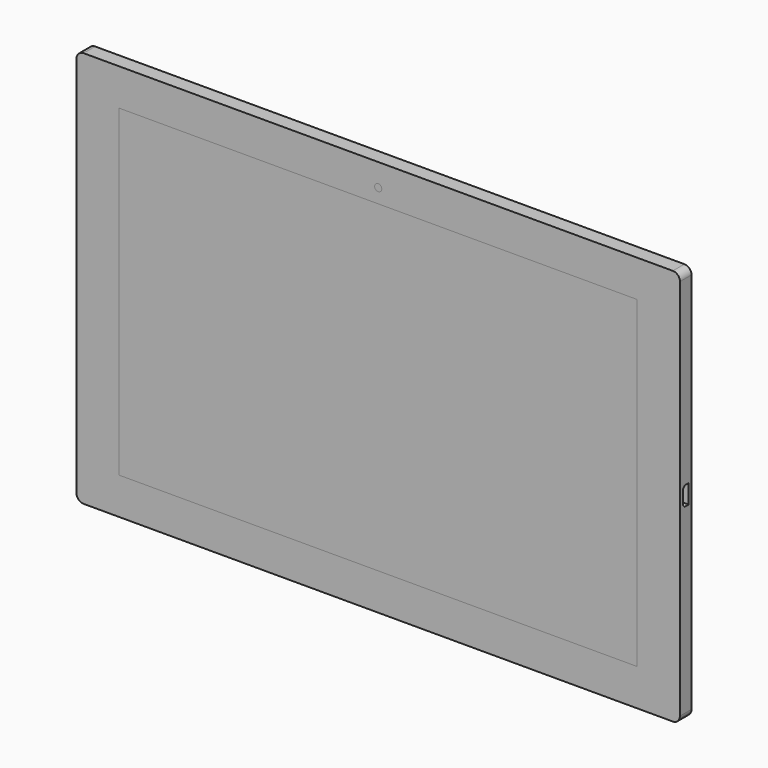
from build123d import *

# Parameters (mm, degrees)
F0_W      = 254
F0_H      = 167
F1_DEPTH  = 3.05
F2_R      = 3
F3_W      = 218
F3_H      = 136
F3_R      = 1.5
F4_DEPTH  = 1
F5_W      = 218
F5_H      = 136
F6_DEPTH  = 1
F5_R      = 1.5
F7_R      = 3.5
F8_DEPTH  = 3
F9_R      = 3.5
F10_DEPTH = 3
F11_R     = 1.75
F12_DEPTH = 1
F14_DEPTH = 8


with BuildPart() as f1:
    # F0 (on Front) → F1 (new body, symmetric)
    with BuildSketch(Plane.XZ):
        Rectangle(F0_W, F0_H)
    extrude(amount=F1_DEPTH, both=True)

    # F2
    f2_edges = [f1.edges().sort_by_distance(p)[0] for p in [
        (127, 0, 83.5),
        (127, 0, -83.5),
        (-127, 0, -83.5),
        (-127, 0, 83.5),
    ]]
    fillet(f2_edges, radius=F2_R)

    # F3 (on face) → F4 (cut)
    with BuildSketch(Plane.XZ.offset(3.05)):
        Rectangle(F3_W, F3_H)
        with Locations((0, 74)):
            Circle(F3_R)
    extrude(amount=-F4_DEPTH, mode=Mode.SUBTRACT)

    # F7 (on face) → F8 (cut)
    with BuildSketch(Plane(origin=(0, 3.05, 0), x_dir=(-1, 0, 0), z_dir=(0, 1, 0))):
        with Locations((117, 56.5)):
            Circle(F7_R)
    extrude(amount=-F8_DEPTH, mode=Mode.SUBTRACT)

    # F11 (on face) → F12 (join)
    with BuildSketch(Plane(origin=(-127, 0, 0), x_dir=(0, -1, 0), z_dir=(-1, 0, 0))):
        with Locations((0, 18.5)):
            Circle(F11_R)
        with BuildLine():
            Line((0.15, 10), (-0.15, 10))
            ThreePointArc((-0.15, 10), (-0.5742640687, 9.8242640687), (-0.75, 9.4))
            Line((-0.75, 9.4), (-0.75, -9.4))
            ThreePointArc((-0.75, -9.4), (-0.5742640687, -9.8242640687), (-0.15, -10))
            Line((-0.15, -10), (0.15, -10))
            ThreePointArc((0.15, -10), (0.5742640687, -9.8242640687), (0.75, -9.4))
            Line((0.75, -9.4), (0.75, 9.4))
            ThreePointArc((0.75, 9.4), (0.5742640687, 9.8242640687), (0.15, 10))
        make_face()
    extrude(amount=F12_DEPTH)

    # F13 (on face) → F14 (cut)
    with BuildSketch(Plane.YZ.offset(127)):
        Polygon((1.5, -4), (1.5, 4), (-0.5, 4), (-1.5, 3), (-1.5, -3), (-0.5, -4), align=None)
    extrude(amount=-F14_DEPTH, mode=Mode.SUBTRACT)


with BuildPart() as f6:
    # F5 (on face) → F6 (new body, through all)
    with BuildSketch(Plane.XZ.offset(2.05)):
        Rectangle(F5_W, F5_H)
    extrude(amount=F6_DEPTH)


with BuildPart() as f6b:
    # F5 (on face) → F6, piece 2 (new body, through all)
    with BuildSketch(Plane.XZ.offset(2.05)):
        with Locations((0, 74)):
            Circle(F5_R)
    extrude(amount=F6_DEPTH)


with BuildPart() as f10:
    # F9 (on face) → F10 (new body)
    with BuildSketch(Plane(origin=(0, 0.05, 0), x_dir=(-1, 0, 0), z_dir=(0, 1, 0))):
        with Locations((117, 56.5)):
            Circle(F9_R)
    extrude(amount=F10_DEPTH)


solid = Compound([f1.part, f6.part, f6b.part, f10.part])
